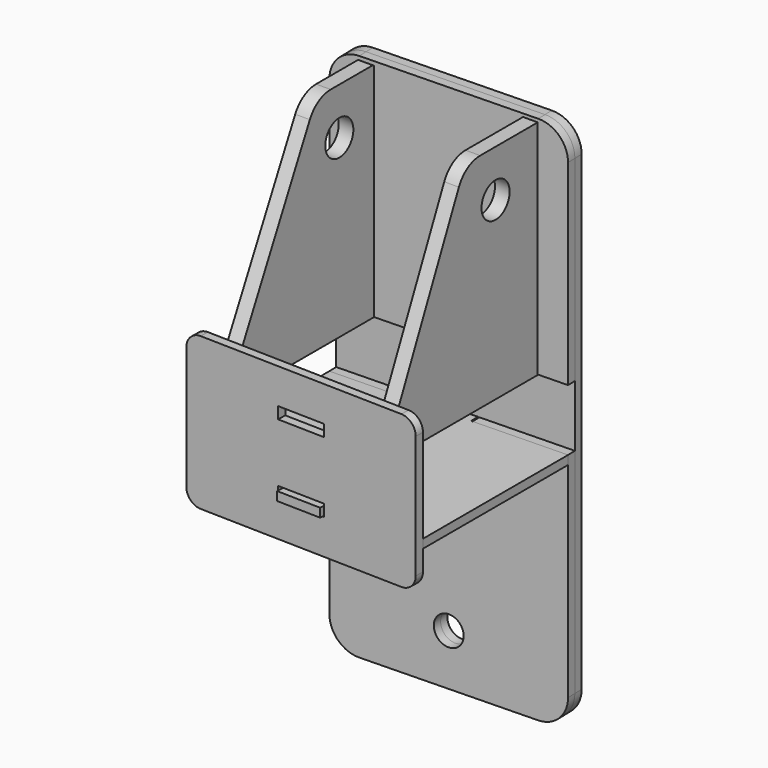
from build123d import *

# Parameters (mm, degrees)
F1_DEPTH  = 3
F2_W      = 16
F2_H      = 4
F3_DEPTH  = 3
F4_R      = 5
F5_DEPTH  = 3
F6_R      = 5
F7_DEPTH  = 3
F8_R      = 6
F9_DEPTH  = 5
F11_R     = 6
F12_DEPTH = 5


with BuildPart() as f1:
    # F0 (on Top) → F1 (new body)
    with BuildSketch(Plane.XY):
        Polygon((32.502303, 58.805691), (0, 58), (0, 0), (32.502303, -0.805691), (32.403179, -4.804463), (47.398572, -5.17618), (47.497697, -1.177409), (80, -1.9831), (80, 59.9831), (47.497697, 59.177409), (47.423353, 62.176487), (32.42796, 61.80477), align=None)
    extrude(amount=F1_DEPTH)


with BuildPart() as f3:
    # F2 (on face) → F3 (new body)
    with BuildSketch(Plane(origin=(0, 0, 0), x_dir=(0.999693, -0.024781, 0), z_dir=(-0.024781, -0.999693, 0))):
        with BuildLine():
            ThreePointArc((0, -7), (1.464466, -10.535534), (5, -12))
            Line((5, -12), (75, -12))
            ThreePointArc((75, -12), (78.535534, -10.535534), (80, -7))
            Line((80, -7), (80, 35))
            ThreePointArc((80, 35), (78.535534, 38.535534), (75, 40))
            Line((75, 40), (5, 40))
            ThreePointArc((5, 40), (1.464466, 38.535534), (0, 35))
            Line((0, 35), (0, -7))
        make_face()
        with Locations((40, 2)):
            Rectangle(F2_W, F2_H, mode=Mode.SUBTRACT)
        with Locations((40, 26)):
            Rectangle(F2_W, F2_H, mode=Mode.SUBTRACT)
    extrude(amount=F3_DEPTH)


with BuildPart() as f5:
    # F4 (on face) → F5 (new body)
    with BuildSketch(Plane(origin=(-1.436865, 57.964382, 0), x_dir=(-0.999693, -0.024781, 0), z_dir=(-0.024781, 0.999693, 0))):
        with BuildLine():
            ThreePointArc((-81.449594, -70), (-78.520662, -77.071068), (-71.449594, -80))
            Line((-71.449594, -80), (-11.449594, -80))
            ThreePointArc((-11.449594, -80), (-4.378526, -77.071068), (-1.449594, -70))
            Line((-1.449594, -70), (-1.449594, 3))
            Line((-1.449594, 3), (-33.449594, 3))
            Line((-33.449594, 3), (-33.449594, -0.5))
            Line((-33.449594, -0.5), (-49.449594, -0.5))
            Line((-49.449594, -0.5), (-49.449594, 3))
            Line((-49.449594, 3), (-81.449594, 3))
            Line((-81.449594, 3), (-81.449594, -70))
        make_face()
        with Locations((-41.449594, -62.5)):
            Circle(F4_R, mode=Mode.SUBTRACT)
        with BuildLine():
            Line((-11.449594, 101), (-71.449594, 101))
            ThreePointArc((-71.449594, 101), (-78.520662, 98.071068), (-81.449594, 91))
            Line((-81.449594, 91), (-81.449594, 24))
            Line((-81.449594, 24), (-49.449594, 24))
            Line((-49.449594, 24), (-49.449594, 27.5))
            Line((-49.449594, 27.5), (-33.449594, 27.5))
            Line((-33.449594, 27.5), (-33.449594, 24))
            Line((-33.449594, 24), (-1.449594, 24))
            Line((-1.449594, 24), (-1.449594, 91))
            ThreePointArc((-1.449594, 91), (-4.378526, 98.071068), (-11.449594, 101))
        make_face()
        with Locations((-41.449594, 56)):
            Circle(F4_R, mode=Mode.SUBTRACT)
    extrude(amount=F5_DEPTH)


with BuildPart() as f7:
    # F6 (on face) → F7 (new body)
    with BuildSketch(Plane(origin=(-1.511208, 60.963461, 0), x_dir=(-0.999693, -0.024781, 0), z_dir=(-0.024781, 0.999693, 0))):
        with BuildLine():
            ThreePointArc((-81.449594, -70), (-78.520662, -77.071068), (-71.449594, -80))
            Line((-71.449594, -80), (-11.449594, -80))
            ThreePointArc((-11.449594, -80), (-4.378526, -77.071068), (-1.449594, -70))
            Line((-1.449594, -70), (-1.449594, 91))
            ThreePointArc((-1.449594, 91), (-4.378526, 98.071068), (-11.449594, 101))
            Line((-11.449594, 101), (-71.449594, 101))
            ThreePointArc((-71.449594, 101), (-78.520662, 98.071068), (-81.449594, 91))
            Line((-81.449594, 91), (-81.449594, -70))
        make_face()
        with Locations((-41.449594, -62.5)):
            Circle(F6_R, mode=Mode.SUBTRACT)
        with Locations((-41.449594, 56)):
            Circle(F6_R, mode=Mode.SUBTRACT)
    extrude(amount=F7_DEPTH)


with BuildPart() as f9:
    # F8 (on Right) → F9 (new body)
    with BuildSketch(Plane.YZ):
        with BuildLine():
            Line((0, 24), (58.5, 24))
            Line((58.5, 24), (58.5, 99))
            ThreePointArc((58.5, 99), (58.207107, 99.707107), (57.5, 100))
            Line((57.5, 100), (39.826997, 100))
            ThreePointArc((39.826997, 100), (34.60594, 98.528808), (30.921119, 94.548114))
            Line((30.921119, 94.548114), (1.094122, 36.142453))
            ThreePointArc((1.094122, 36.142453), (0.277377, 33.933272), (0, 31.594339))
            Line((0, 31.594339), (0, 24))
        make_face()
        with Locations((43.5, 84)):
            Circle(F8_R, mode=Mode.SUBTRACT)
    extrude(amount=F9_DEPTH)


with BuildPart() as f9_1:
    # F10: moved
    add(f9.part.moved(Location((10, 0, 0))))


with BuildPart() as f12:
    # F11 (on Right) → F12 (new body)
    with BuildSketch(Plane.YZ):
        with BuildLine():
            Line((0, 31.800063), (0, 24))
            Line((0, 24), (61.5, 24))
            Line((61.5, 24), (61.5, 100))
            Line((61.5, 100), (36.90959, 100))
            ThreePointArc((36.90959, 100), (31.522923, 98.425189), (27.832852, 94.196763))
            Line((27.832852, 94.196763), (0.923261, 35.996825))
            ThreePointArc((0.923261, 35.996825), (0.233542, 33.948622), (0, 31.800063))
        make_face()
        with Locations((43.5, 84)):
            Circle(F11_R, mode=Mode.SUBTRACT)
    extrude(amount=F12_DEPTH)


with BuildPart() as f12_1:
    # F13: moved
    add(f12.part.moved(Location((65, -2, 0))))


solid = Compound([f1.part, f3.part, f5.part, f7.part, f9_1.part, f12_1.part])
